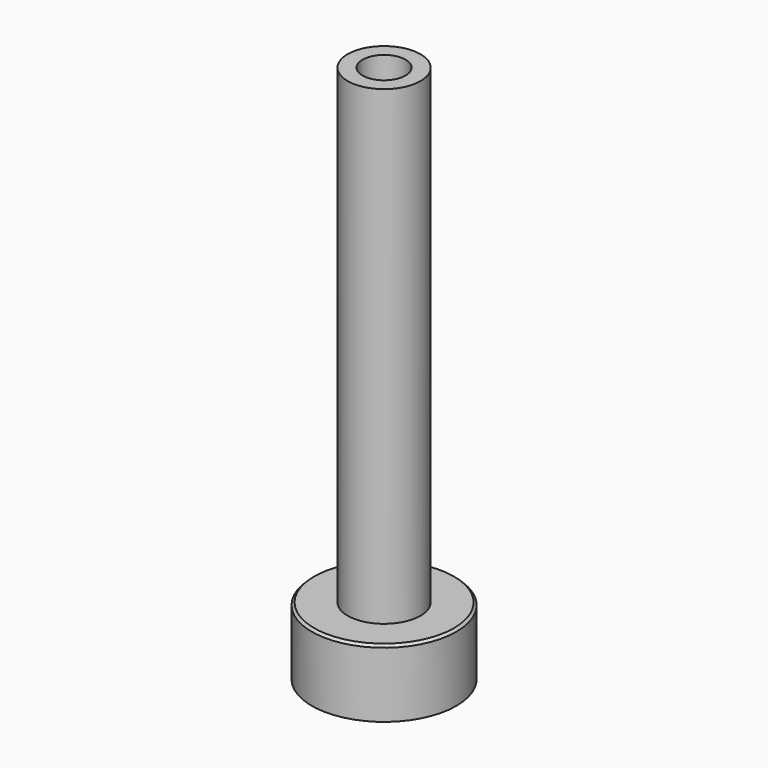
from build123d import *

# Parameters (mm, degrees)
F0_R     = 23.749
F1_DEPTH = 22.225
F2_R     = 11.9634
F3_DEPTH = 176.784
F4_R     = 3.9755383952
F5_DEPTH = 176.785
F5_TAPER = -1
F8_SIZE  = 0.7874


with BuildPart() as f1:
    # F0 (on Top) → F1 (new body)
    with BuildSketch(Plane.XY):
        Circle(F0_R)
    extrude(amount=F1_DEPTH)

    # F2 (on Top) → F3 (join)
    with BuildSketch(Plane.XY):
        Circle(F2_R)
    extrude(amount=F3_DEPTH)

    # F4 (on Top) → F5 (cut, through all)
    with BuildSketch(Plane.XY):
        Circle(F4_R)
    extrude(amount=F5_DEPTH, taper=F5_TAPER, mode=Mode.SUBTRACT)

    # F6 (on Front) → F7 (revolve, cut)
    with BuildSketch(Plane.XZ):
        with BuildLine():
            Line((0, -9.525), (0, 0))
            Line((0, 0), (0, 3.175))
            ThreePointArc((0, 3.175), (-12.7, -9.525), (0, -22.225))
            Line((0, -22.225), (0, -9.525))
        make_face()
    revolve(axis=Axis((0, 0, -4.7625), (0, 0, -1)), mode=Mode.SUBTRACT)

    # F8
    f8_edges = [f1.edges().sort_by_distance(p)[0] for p in [
        (-23.749, 0, 22.225),
    ]]
    chamfer(f8_edges, length=F8_SIZE)


solid = f1.part
